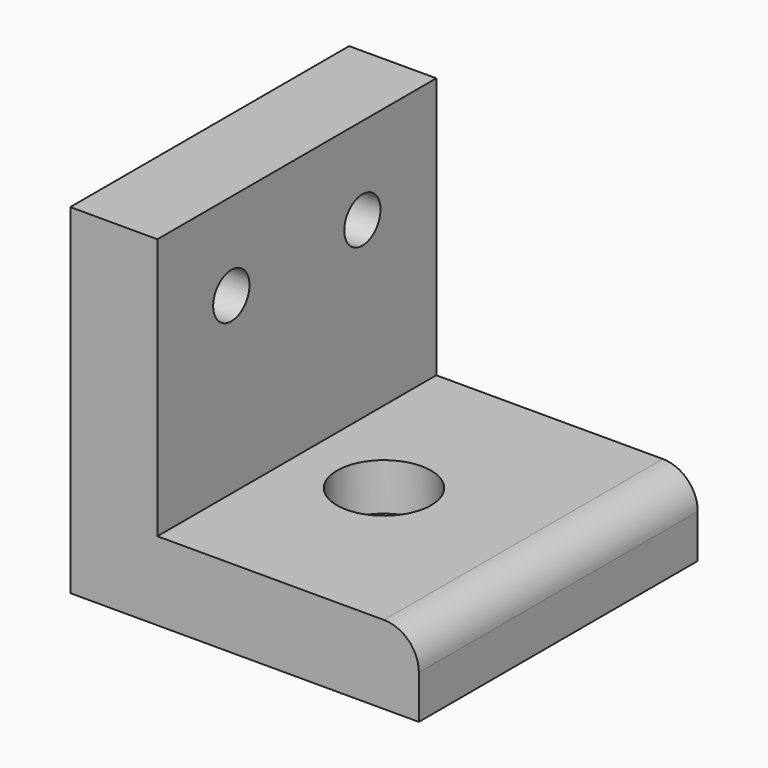
from build123d import *

# Parameters (mm, degrees)
SKETCH_W        = 20
SKETCH_H        = 20
PAD_DEPTH       = 4.5
SKETCH001_R     = 1.7
POCKET_DEPTH    = 5
SKETCH002_R     = 2.7
POCKET001_DEPTH = 2.7
SKETCH003_W     = 5
SKETCH003_H     = 20
PAD001_DEPTH    = 15
SKETCH004_R     = 1.3
POCKET002_DEPTH = 5
FILLET_R        = 2


with BuildPart() as part:
    # Sketch → Pad (new body)
    with BuildSketch(Plane.XY):
        Rectangle(SKETCH_W, SKETCH_H)
    extrude(amount=PAD_DEPTH)

    # Sketch001 (on Face6 of Pad) → Pocket (cut)
    with BuildSketch(Plane.XY.offset(4.5)):
        Circle(SKETCH001_R)
    extrude(amount=-POCKET_DEPTH, mode=Mode.SUBTRACT)

    # Sketch002 (on Face5 of Pocket) → Pocket001 (cut)
    with BuildSketch(Plane.XY.offset(4.5)):
        Circle(SKETCH002_R)
    extrude(amount=-POCKET001_DEPTH, mode=Mode.SUBTRACT)

    # Sketch003 (on Face5 of Pocket001) → Pad001 (join)
    with BuildSketch(Plane.XY.offset(4.5)):
        with Locations((-7.5, 0)):
            Rectangle(SKETCH003_W, SKETCH003_H)
    extrude(amount=PAD001_DEPTH)

    # Sketch004 (on Face10 of Pad001) → Pocket002 (cut)
    with BuildSketch(Plane.YZ.offset(-5)):
        with Locations((-4.7, 14.5)):
            Circle(SKETCH004_R)
        with Locations((4.7, 14.5)):
            Circle(SKETCH004_R)
    extrude(amount=-POCKET002_DEPTH, mode=Mode.SUBTRACT)

    # Fillet
    fillet_edges = [part.edges().sort_by_distance(p)[0] for p in [
        (10, 0, 4.5),
    ]]
    fillet(fillet_edges, radius=FILLET_R)


solid = part.part
